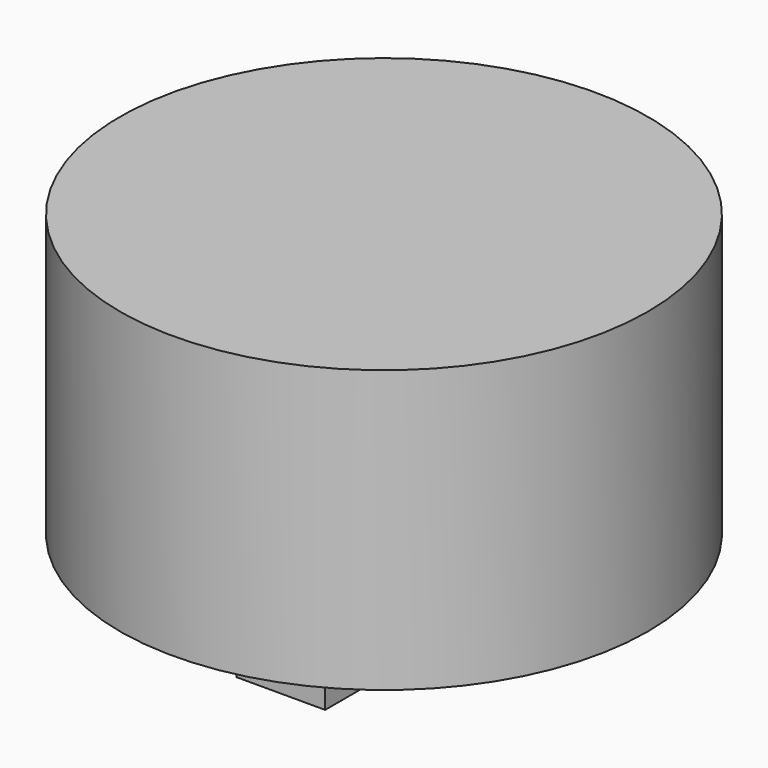
from build123d import *

# Parameters (mm, degrees)
F0_R     = 19.05
F1_DEPTH = 20.32
F2_W     = 6.413016
F2_H     = 18.628282
F3_DEPTH = 6.35


with BuildPart() as f1:
    # F0 (on Top) → F1 (new body)
    with BuildSketch(Plane.XY):
        Circle(F0_R)
    extrude(amount=F1_DEPTH)

    # F2 (on face) → F3 (join)
    with BuildSketch(Plane(origin=(0, 0, 0), x_dir=(1, 0, 0), z_dir=(0, 0, -1))):
        Rectangle(F2_W, F2_H)
    extrude(amount=F3_DEPTH)


solid = f1.part
